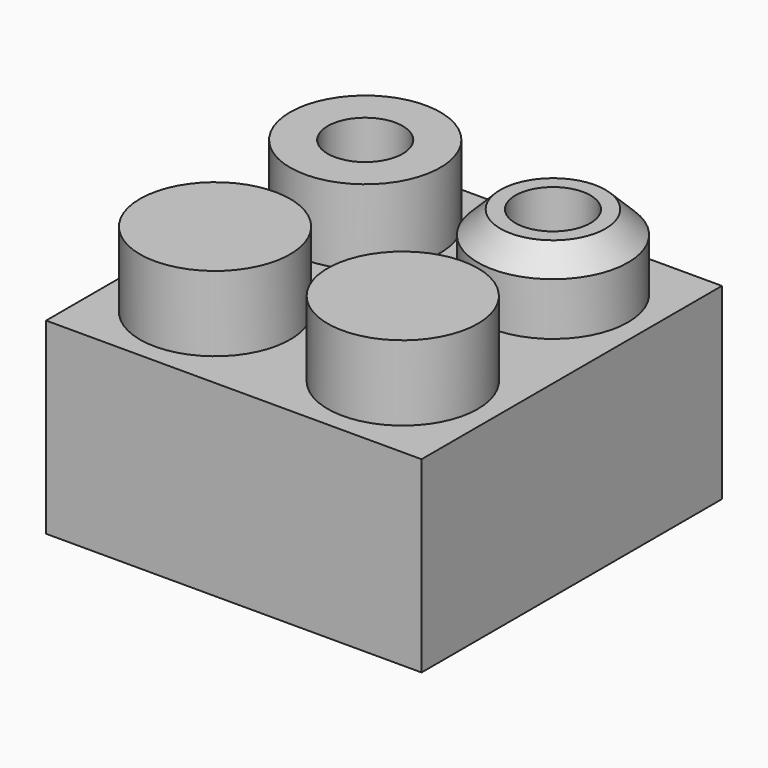
from build123d import *

# Parameters (mm, degrees)
SKETCH_W                = 10
SKETCH_H                = 10
PAD_DEPTH               = 5
SKETCH001_R             = 2
PAD001_DEPTH            = 2
SKETCH002_R             = 1
POCKET_DEPTH            = 38.560468
CHAMFER_SIZE            = 0.6
SKETCH001_MIRRORED_2_R  = 2
PAD001_MIRRORED_2_DEPTH = 2


with BuildPart() as part:
    # Sketch → Pad (new body)
    with BuildSketch(Plane.XY):
        Rectangle(SKETCH_W, SKETCH_H)
    extrude(amount=PAD_DEPTH)

    # Sketch001 (on Face6 of Pad) → Pad001 (join)
    with BuildSketch(Plane.XY.offset(5)):
        with Locations((2.5, 2.5)):
            Circle(SKETCH001_R)
    pad001 = extrude(amount=PAD001_DEPTH)

    # Sketch002 (on Face8 of Pad001) → Pocket (cut, through all)
    with BuildSketch(Plane.XY.offset(7)):
        with Locations((2.5, 2.5)):
            Circle(SKETCH002_R)
    pocket = extrude(amount=-POCKET_DEPTH, mode=Mode.SUBTRACT)

    # Chamfer
    chamfer_edges = [part.edges().sort_by_distance(p)[0] for p in [
        (0.5, 2.5, 7),
    ]]
    chamfer(chamfer_edges, length=CHAMFER_SIZE)

    # Sketch001 Mirrored 2 → Pad001 Mirrored 2 (add)
    with BuildSketch(Plane(origin=(0, 0, 5), x_dir=(-1, 0, 0), z_dir=(0, 0, -1))):
        with Locations((2.5, 2.5)):
            Circle(SKETCH001_MIRRORED_2_R)
    pad001_mirrored_2 = extrude(amount=-PAD001_MIRRORED_2_DEPTH)

    # Mirrored001: Pad001, Pad001 Mirrored 2 across XZ
    add(pad001.mirror(Plane.XZ))
    add(pad001_mirrored_2.mirror(Plane.XZ))

    # Mirrored002: Pocket across Sketch002 V_Axis
    add(pocket.mirror(Plane(origin=(0, 0, 7), x_dir=(0, 0, 1), z_dir=(1, 0, 0))), mode=Mode.SUBTRACT)


solid = part.part
